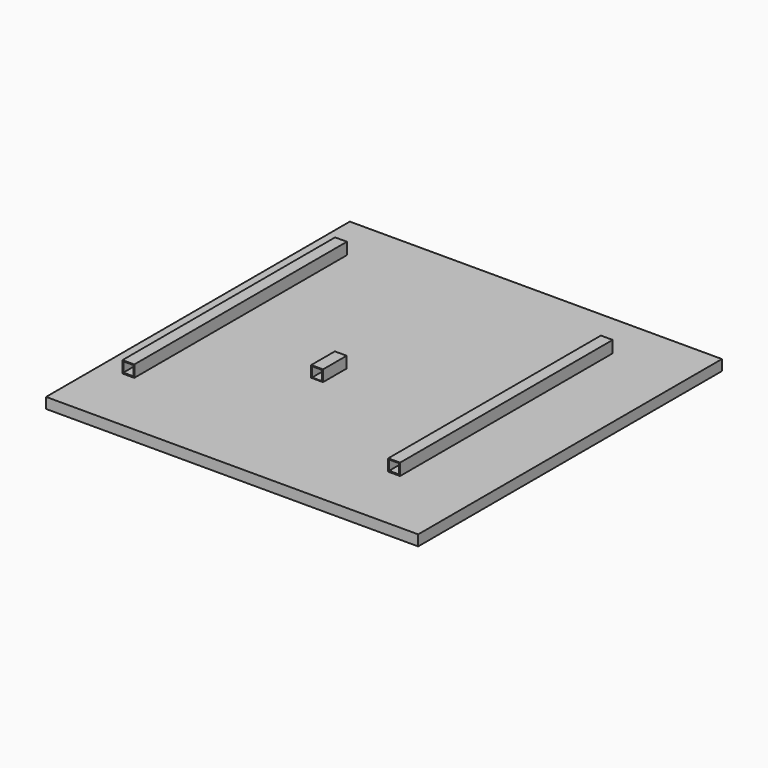
from build123d import *

# Parameters (mm, degrees)
F0_W     = 630
F0_H     = 642.791606
F1_DEPTH = 18
F2_W     = 20
F2_H     = 20
F2_W_2   = 17
F2_H_2   = 16.709963
F3_DEPTH = 450
F6_W     = 20
F6_H     = 20
F6_W_2   = 17
F6_H_2   = 16.709963
F7_DEPTH = 50


with BuildPart() as f1:
    # F0 (on Top) → F1 (new body)
    with BuildSketch(Plane.XY):
        with Locations((8.169064, 9.718368)):
            Rectangle(F0_W, F0_H)
    extrude(amount=F1_DEPTH)


with BuildPart() as f3:
    # F2 (on Front) → F3 (new body)
    with BuildSketch(Plane.XZ):
        with Locations((-11.861514, 27.108502)):
            Rectangle(F2_W, F2_H)
        with Locations((-11.861515, 27.322224)):
            Rectangle(F2_W_2, F2_H_2, mode=Mode.SUBTRACT)
    extrude(amount=F3_DEPTH)


with BuildPart() as f4_1:
    # F4: copy of F3
    add(f3.part.moved(Location((-225, 225, 20))))


with BuildPart() as f3_1:
    # F5: moved
    add(f3.part.moved(Location((225, 225, 20))))


with BuildPart() as f7:
    # F6 (on Front) → F7 (new body)
    with BuildSketch(Plane.XZ):
        with Locations((-57.260444, 27.061193)):
            Rectangle(F6_W, F6_H)
        with Locations((-57.260445, 27.274914)):
            Rectangle(F6_W_2, F6_H_2, mode=Mode.SUBTRACT)
    extrude(amount=F7_DEPTH)


solid = Compound([f1.part, f4_1.part, f3_1.part, f7.part])
